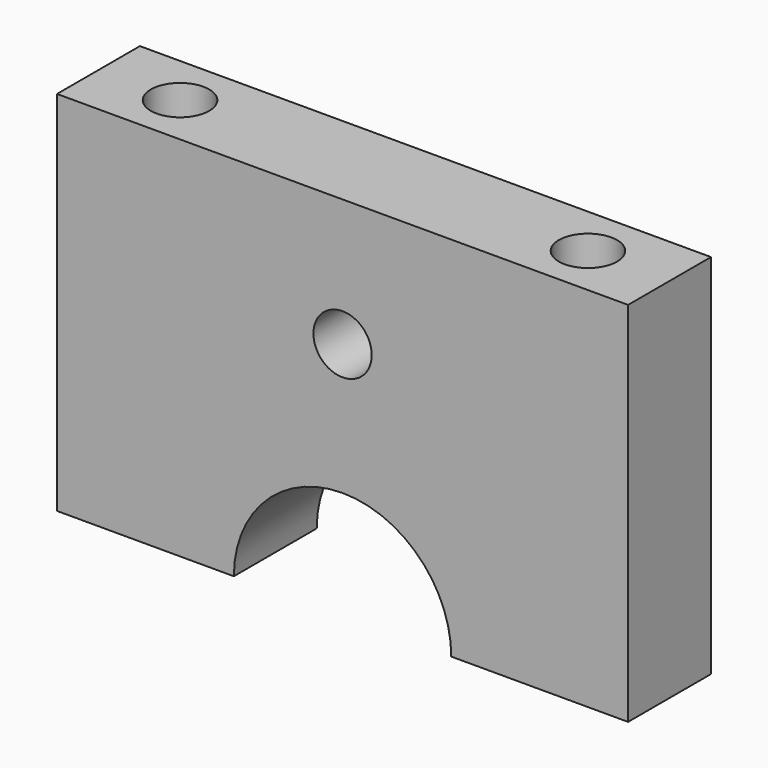
from build123d import *

# Parameters (mm, degrees)
SKETCH029_R  = 3.571875
PAD035_DEPTH = 55
SKETCH028_R  = 3.571875
PAD027_DEPTH = 55
SKETCH027_R  = 3.571875
PAD028_DEPTH = 30
PAD033_DEPTH = 12.7


with BuildPart() as body029:
    # Sketch029 → Pad035 (new body)
    with BuildSketch(Plane.XY):
        Circle(SKETCH029_R)
    extrude(amount=PAD035_DEPTH)


with BuildPart() as body029_1:
    # Body029 placement: moved
    add(body029.part.moved(Location((150, -6.35, 115))))


with BuildPart() as body034:
    # Sketch028 → Pad027 (new body)
    with BuildSketch(Plane.XY):
        Circle(SKETCH028_R)
    extrude(amount=PAD027_DEPTH)


with BuildPart() as body034_1:
    # Body034 placement: moved
    add(body034.part.moved(Location((100, -6.35, 115))))


with BuildPart() as body035:
    # Sketch027 → Pad028 (new body)
    with BuildSketch(Plane.XZ):
        Circle(SKETCH027_R)
    extrude(amount=PAD028_DEPTH)


with BuildPart() as body035_1:
    # Body035 placement: moved
    add(body035.part.moved(Location((25, 2, 149.369))))


with BuildPart() as braceupper001:
    # Sketch031 → Pad033 (new body)
    with BuildSketch(Plane.XZ):
        with BuildLine():
            Line((-20, 110), (-20, 155))
            Line((-20, 155), (50, 155))
            Line((50, 155), (50, 110))
            Line((50, 110), (28.325, 110))
            ThreePointArc((28.325, 110), (15, 123.324967), (1.675, 110))
            Line((-20, 110), (1.675, 110))
        make_face()
    extrude(amount=PAD033_DEPTH)


with BuildPart() as braceupper001_1:
    # Body033 placement: moved
    add(braceupper001.part.moved(Location((10, 0, 10))))

    # Cut021: cut Body035
    add(body035_1.part, mode=Mode.SUBTRACT)


with BuildPart() as braceupper001_2:
    # Cut021 placement: moved
    add(braceupper001_1.part.moved(Location((100, 0, 0))))

    # Cut020: cut Body034
    add(body034_1.part, mode=Mode.SUBTRACT)

    # Cut024: cut Body029
    add(body029_1.part, mode=Mode.SUBTRACT)


with BuildPart() as braceupper001_3:
    # Cut024 placement: moved
    add(braceupper001_2.part.moved(Location((-100, 0, 0))))


solid = braceupper001_3.part
